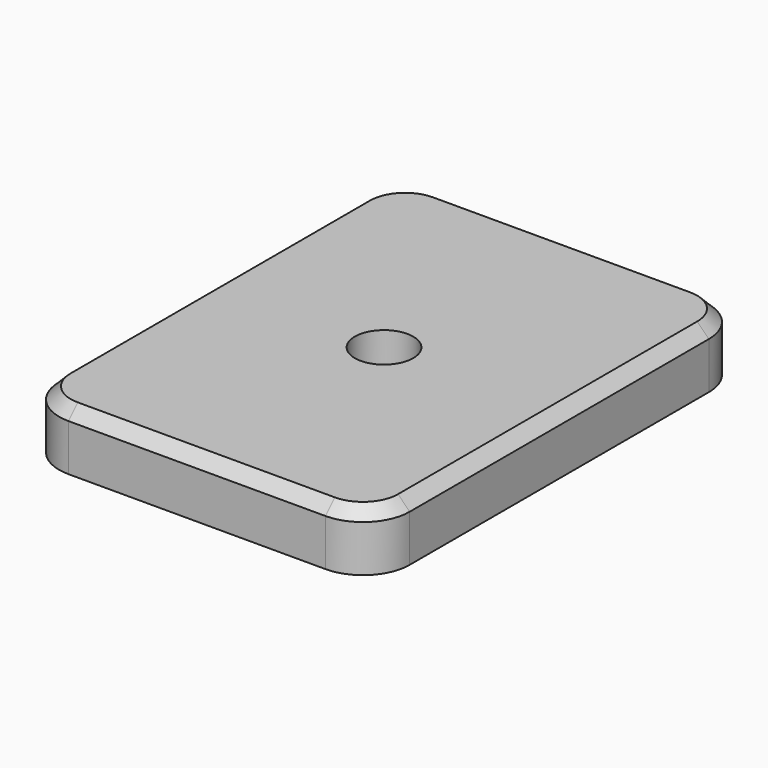
from build123d import *

# Parameters (mm, degrees)
F0_W     = 38.1
F0_H     = 50.8
F0_R     = 3.175
F1_DEPTH = 6.35
F2_R     = 5.08
F3_SIZE  = 1.27


with BuildPart() as f1:
    # F0 (on Top) → F1 (new body)
    with BuildSketch(Plane.XY):
        with Locations((19.05, 25.4)):
            Rectangle(F0_W, F0_H)
        with Locations((19.05, 25.4)):
            Circle(F0_R, mode=Mode.SUBTRACT)
    extrude(amount=F1_DEPTH)

    # F2
    f2_edges = [f1.edges().sort_by_distance(p)[0] for p in [
        (0, 50.8, 3.175),
        (0, 0, 3.175),
        (38.1, 0, 3.175),
        (38.1, 50.8, 3.175),
    ]]
    fillet(f2_edges, radius=F2_R)

    # F3
    f3_edges = [f1.edges().sort_by_distance(p)[0] for p in [
        (19.05, 50.8, 6.35),
    ]]
    chamfer(f3_edges, length=F3_SIZE)


solid = f1.part
